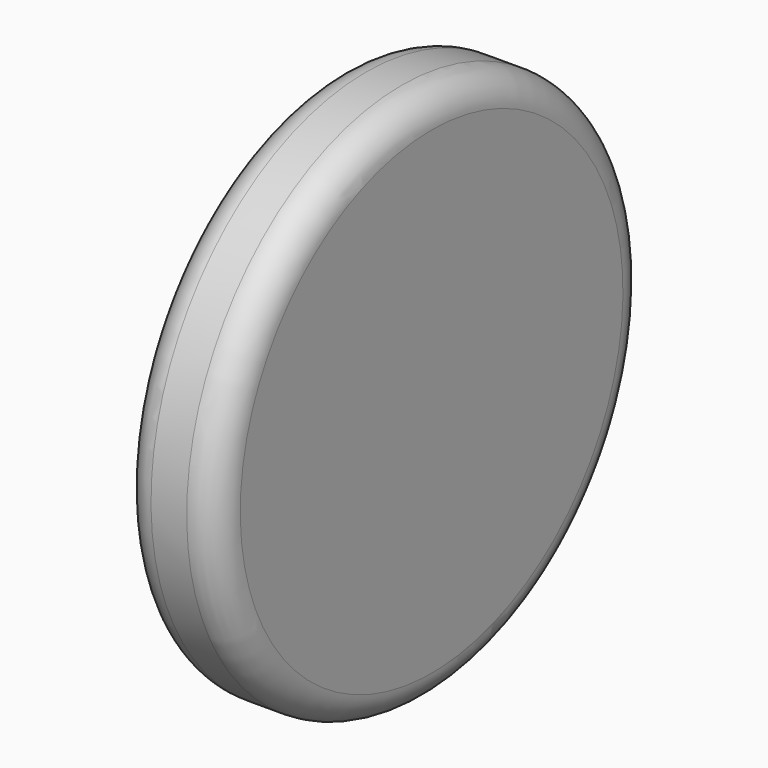
from build123d import *

# Parameters (mm, degrees)
F0_W = 5.08
F0_H = 6.604


with BuildPart() as f1:
    # F0 (on Front) → F1 (revolve)
    with BuildSketch(Plane.XZ):
        with Locations((3.215322, 12.7)):
            Rectangle(F0_W, F0_H)
        with BuildLine():
            Line((-4.404678, 25.527), (-4.404678, 19.868769))
            Line((-4.404678, 19.868769), (0.675322, 18.863278))
            Line((0.675322, 18.863278), (0.675322, 16.002))
            Line((0.675322, 16.002), (5.755322, 16.002))
            Line((5.755322, 16.002), (5.755322, 25.527))
            ThreePointArc((5.755322, 25.527), (4.825386, 27.772064), (2.580322, 28.702))
            Line((2.580322, 28.702), (-1.229678, 28.702))
            ThreePointArc((-1.229678, 28.702), (-3.474742, 27.772064), (-4.404678, 25.527))
        make_face()
        Polygon((-4.404678, 6.513816), (-4.404678, 0), (5.755322, 0), (5.755322, 9.398), (0.675322, 9.398), (0.675322, 7.781735), align=None)
    revolve(axis=Axis((0.675322, 0, 0), (1, 0, 0)))


solid = f1.part
